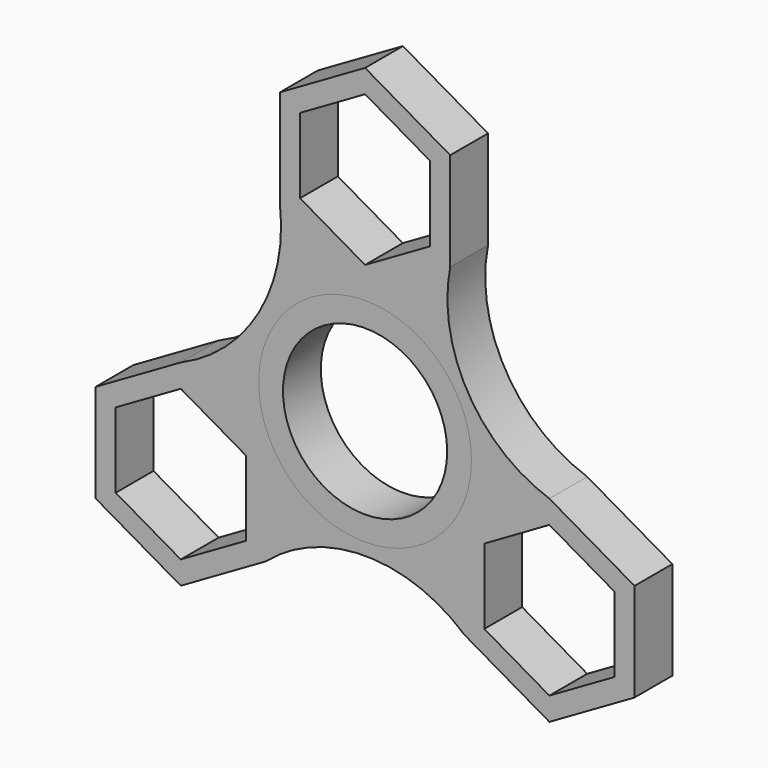
from build123d import *

# Parameters (mm, degrees)
F0_R     = 14.2875
F0_R_2   = 11.0236
F2_DEPTH = 6.35
F3_DEPTH = 6.35


with BuildPart() as f2:
    # F0 (on Front) → F2 (new body)
    with BuildSketch(Plane.XZ):
        Polygon((-13.316676, -7.688386), (-24.746676, -1.089273), (-36.176676, -7.688386), (-36.176676, -20.886614), (-24.746676, -27.485727), (-13.316676, -20.886614), align=None)
        Polygon((-16.009076, -19.332156), (-24.746676, -24.376811), (-33.484276, -19.332156), (-33.484276, -9.242844), (-24.746676, -4.198189), (-16.009076, -9.242844), align=None, mode=Mode.SUBTRACT)
        Polygon((36.176676, -7.688386), (24.746676, -1.089273), (13.316676, -7.688386), (13.316676, -20.886614), (24.746676, -27.485727), (36.176676, -20.886614), align=None)
        Polygon((24.746676, -4.198189), (33.484276, -9.242844), (33.484276, -19.332156), (24.746676, -24.376811), (16.009076, -19.332156), (16.009076, -9.242844), align=None, mode=Mode.SUBTRACT)
        Polygon((-11.43, 35.174114), (-11.43, 21.975886), (0, 15.376773), (11.43, 21.975886), (11.43, 35.174114), (0, 41.773227), align=None)
        Polygon((0, 18.485689), (-8.7376, 23.530344), (-8.7376, 33.619656), (0, 38.664311), (8.7376, 33.619656), (8.7376, 23.530344), align=None, mode=Mode.SUBTRACT)
        Circle(F0_R)
        Circle(F0_R_2, mode=Mode.SUBTRACT)
    extrude(amount=F2_DEPTH)


with BuildPart() as f3:
    # F0 (on Front) → F3 (new body)
    with BuildSketch(Plane.XZ):
        Polygon((-11.43, 35.174114), (-11.43, 21.975886), (0, 15.376773), (11.43, 21.975886), (11.43, 35.174114), (0, 41.773227), align=None)
        Polygon((0, 18.485689), (-8.7376, 23.530344), (-8.7376, 33.619656), (0, 38.664311), (8.7376, 33.619656), (8.7376, 23.530344), align=None, mode=Mode.SUBTRACT)
        with BuildLine():
            Line((0, 15.376773), (-11.43, 21.975886))
            ThreePointArc((-11.43, 21.975886), (-14.261571, 8.233922), (-24.746676, -1.089273))
            Line((-24.746676, -1.089273), (-13.316676, -7.688386))
            Line((-13.316676, -7.688386), (-13.316676, -20.886614))
            ThreePointArc((-13.316676, -20.886614), (0, -15.897326), (13.316676, -20.886614))
            Line((13.316676, -20.886614), (13.316676, -7.688386))
            Line((13.316676, -7.688386), (24.746676, -1.089273))
            ThreePointArc((24.746676, -1.089273), (13.769682, 7.949929), (11.43, 21.975886))
            Line((11.43, 21.975886), (0, 15.376773))
        make_face()
        Circle(F0_R, mode=Mode.SUBTRACT)
        Polygon((-13.316676, -7.688386), (-24.746676, -1.089273), (-36.176676, -7.688386), (-36.176676, -20.886614), (-24.746676, -27.485727), (-13.316676, -20.886614), align=None)
        Polygon((-16.009076, -19.332156), (-24.746676, -24.376811), (-33.484276, -19.332156), (-33.484276, -9.242844), (-24.746676, -4.198189), (-16.009076, -9.242844), align=None, mode=Mode.SUBTRACT)
        Polygon((36.176676, -7.688386), (24.746676, -1.089273), (13.316676, -7.688386), (13.316676, -20.886614), (24.746676, -27.485727), (36.176676, -20.886614), align=None)
        Polygon((24.746676, -4.198189), (33.484276, -9.242844), (33.484276, -19.332156), (24.746676, -24.376811), (16.009076, -19.332156), (16.009076, -9.242844), align=None, mode=Mode.SUBTRACT)
    extrude(amount=F3_DEPTH)


solid = Compound([f2.part, f3.part])
